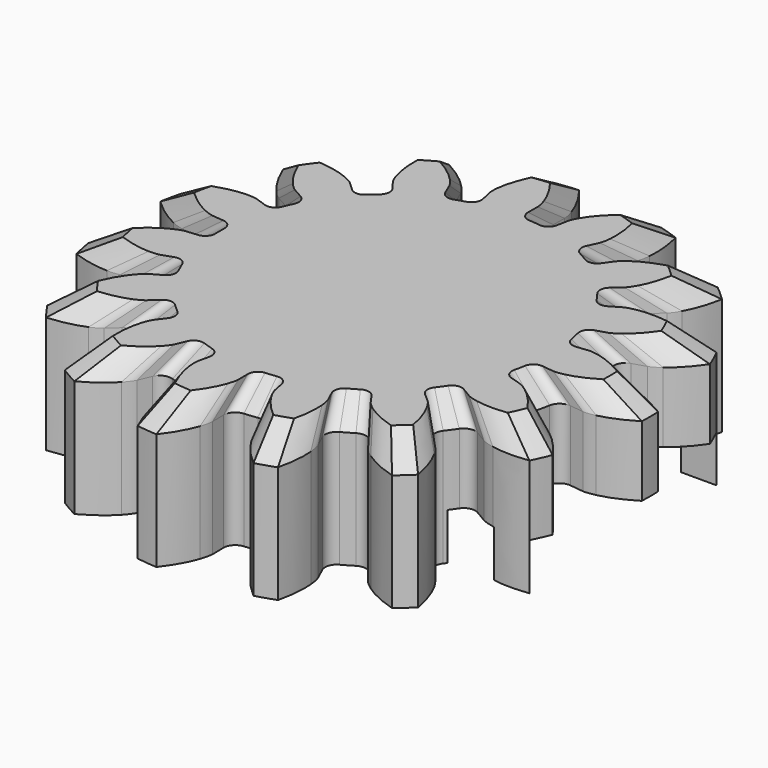
from build123d import *

# Parameters (mm, degrees)
SKETCH196_R             = 4
PAD127032_DEPTH         = 10
PAD127033_DEPTH         = 3
LOFT006_PLACEMENT_ANGLE = 180


with BuildPart() as countersinkcutout:
    # Sketch196 → Pad127032 (new body)
    with BuildSketch(Plane(origin=(50, 160, 17.5), x_dir=(1, 0, 0), z_dir=(0, 0, 1))):
        Circle(SKETCH196_R)
    extrude(amount=-PAD127032_DEPTH)


with BuildPart() as cutouts:
    # Sketch195 → Pad127033 (new body)
    with BuildSketch(Plane(origin=(50, 160, 12), x_dir=(1, 0, 0), z_dir=(0, 0, 1))):
        with BuildLine():
            Line((9, 3.75), (3.307189, 3.75))
            ThreePointArc((3.307189, 3.75), (0, 5), (-3.307189, 3.75))
            Line((-3.307189, 3.75), (-5, 3.75))
            Line((-5, 3.75), (-5, -3.75))
            Line((-5, -3.75), (-3.307189, -3.75))
            ThreePointArc((-3.307189, -3.75), (0, -5), (3.307189, -3.75))
            Line((3.307189, -3.75), (9, -3.75))
            Line((9, -2.5), (9, -3.75))
            Line((12, -2.5), (9, -2.5))
            Line((12, 2.5), (12, -2.5))
            Line((9, 2.5), (12, 2.5))
            Line((9, 3.75), (9, 2.5))
        make_face()
    extrude(amount=PAD127033_DEPTH)

    # Fusion004020025: union CountersinkCutout
    add(countersinkcutout.part)


with BuildPart() as steeringgear:
    # InvoluteGear002 → Loft006 section 0
    with BuildSketch(Plane.XY):
        with BuildLine():
            Line((5.582043, -0.670951), (5.961836, -0.715937))
            add(Edge.make_bspline(
                [(5.961836, -0.715937), (5.998774, -0.717834), (6.109807, -0.718548), (6.29569, -0.67705)],
                knots=[0, 0, 0, 0, 1, 1, 1, 1], degree=3))
            add(Edge.make_bspline(
                [(6.29569, -0.67705), (6.517506, -0.626527), (6.834998, -0.516331), (7.22067, -0.278475)],
                knots=[0, 0, 0, 0, 1, 1, 1, 1], degree=3))
            ThreePointArc((7.22067, -0.278475), (7.226039, 0), (7.22067, 0.278475))
            add(Edge.make_bspline(
                [(7.22067, 0.278475), (6.834998, 0.516331), (6.517506, 0.626527), (6.29569, 0.67705)],
                knots=[0, 0, 0, 0, 1, 1, 1, 1], degree=3))
            add(Edge.make_bspline(
                [(6.29569, 0.67705), (6.109807, 0.718548), (5.998774, 0.717834), (5.961836, 0.715937)],
                knots=[0, 0, 0, 0, 1, 1, 1, 1], degree=3))
            Line((5.961836, 0.715937), (5.582043, 0.670951))
            ThreePointArc((5.582043, 0.670951), (5.354491, 0.731128), (5.230276, 0.931057))
            ThreePointArc((5.230276, 0.931057), (5.196409, 1.104531), (5.15679, 1.276782))
            ThreePointArc((5.15679, 1.276782), (5.188948, 1.509949), (5.37235, 1.657477))
            Line((5.37235, 1.657477), (5.737606, 1.770857))
            add(Edge.make_bspline(
                [(5.737606, 1.770857), (5.772122, 1.784147), (5.873846, 1.828657), (6.02678, 1.942172)],
                knots=[0, 0, 0, 0, 1, 1, 1, 1], degree=3))
            add(Edge.make_bspline(
                [(6.02678, 1.942172), (6.208869, 2.078547), (6.454092, 2.308352), (6.709676, 2.682511)],
                knots=[0, 0, 0, 0, 1, 1, 1, 1], degree=3))
            ThreePointArc((6.709676, 2.682511), (6.601315, 2.939095), (6.483144, 3.191311))
            add(Edge.make_bspline(
                [(6.483144, 3.191311), (6.03407, 3.251736), (5.699206, 3.22327), (5.476018, 3.179204)],
                knots=[0, 0, 0, 0, 1, 1, 1, 1], degree=3))
            add(Edge.make_bspline(
                [(5.476018, 3.179204), (5.289327, 3.141508), (5.188183, 3.095695), (5.155211, 3.078938)],
                knots=[0, 0, 0, 0, 1, 1, 1, 1], degree=3))
            Line((5.155211, 3.078938), (4.82655, 2.883365))
            ThreePointArc((4.82655, 2.883365), (4.594195, 2.845786), (4.3994, 2.977908))
            ThreePointArc((4.3994, 2.977908), (4.297903, 3.122609), (4.191648, 3.263854))
            ThreePointArc((4.191648, 3.263854), (4.126188, 3.489942), (4.233729, 3.699313))
            Line((4.233729, 3.699313), (4.521292, 3.951453))
            add(Edge.make_bspline(
                [(4.521292, 3.951453), (4.547418, 3.977633), (4.622244, 4.05967), (4.715785, 4.225574)],
                knots=[0, 0, 0, 0, 1, 1, 1, 1], degree=3))
            add(Edge.make_bspline(
                [(4.715785, 4.225574), (4.826663, 4.424222), (4.957215, 4.7339), (5.038519, 5.179667)],
                knots=[0, 0, 0, 0, 1, 1, 1, 1], degree=3))
            ThreePointArc((5.038519, 5.179667), (4.835164, 5.369993), (4.624624, 5.55234))
            add(Edge.make_bspline(
                [(4.624624, 5.55234), (4.189797, 5.424886), (3.895462, 5.262679), (3.709492, 5.131644)],
                knots=[0, 0, 0, 0, 1, 1, 1, 1], degree=3))
            add(Edge.make_bspline(
                [(3.709492, 5.131644), (3.554274, 5.021274), (3.480508, 4.938283), (3.457203, 4.909563)],
                knots=[0, 0, 0, 0, 1, 1, 1, 1], degree=3))
            Line((3.457203, 4.909563), (3.236502, 4.59722))
            ThreePointArc((3.236502, 4.59722), (3.03952, 4.468383), (2.807828, 4.509851))
            ThreePointArc((2.807828, 4.509851), (2.65625, 4.60076), (2.501732, 4.686576))
            ThreePointArc((2.501732, 4.686576), (2.349973, 4.866493), (2.363058, 5.101503))
            Line((2.363058, 5.101503), (2.523205, 5.448807))
            add(Edge.make_bspline(
                [(2.523205, 5.448807), (2.536424, 5.48335), (2.571414, 5.588729), (2.589388, 5.778337)],
                knots=[0, 0, 0, 0, 1, 1, 1, 1], degree=3))
            add(Edge.make_bspline(
                [(2.589388, 5.778337), (2.609883, 6.004909), (2.603191, 6.340914), (2.496155, 6.781212)],
                knots=[0, 0, 0, 0, 1, 1, 1, 1], degree=3))
            ThreePointArc((2.496155, 6.781212), (2.232969, 6.872371), (1.966464, 6.953319))
            add(Edge.make_bspline(
                [(1.966464, 6.953319), (1.62107, 6.660024), (1.418157, 6.392124), (1.301562, 6.196777)],
                knots=[0, 0, 0, 0, 1, 1, 1, 1], degree=3))
            add(Edge.make_bspline(
                [(1.301562, 6.196777), (1.204655, 6.032816), (1.171022, 5.926996), (1.161412, 5.89128)],
                knots=[0, 0, 0, 0, 1, 1, 1, 1], degree=3))
            Line((1.161412, 5.89128), (1.086834, 5.516173))
            ThreePointArc((1.086834, 5.516173), (0.959285, 5.318355), (0.730757, 5.262001))
            ThreePointArc((0.730757, 5.262001), (0.555307, 5.283398), (0.379244, 5.298946))
            ThreePointArc((0.379244, 5.298946), (0.167426, 5.401583), (0.083793, 5.621597))
            Line((0.083793, 5.621597), (0.088833, 6.004013))
            add(Edge.make_bspline(
                [(0.088833, 6.004013), (0.086859, 6.040946), (0.075963, 6.151446), (0.015263, 6.331972)],
                knots=[0, 0, 0, 0, 1, 1, 1, 1], degree=3))
            add(Edge.make_bspline(
                [(0.015263, 6.331972), (-0.05817, 6.547292), (-0.200949, 6.851526), (-0.477816, 7.210223)],
                knots=[0, 0, 0, 0, 1, 1, 1, 1], degree=3))
            ThreePointArc((-0.477816, 7.210223), (-0.755327, 7.186454), (-1.031715, 7.152006))
            add(Edge.make_bspline(
                [(-1.031715, 7.152006), (-1.227955, 6.743583), (-1.30436, 6.416312), (-1.33142, 6.19043)],
                knots=[0, 0, 0, 0, 1, 1, 1, 1], degree=3))
            add(Edge.make_bspline(
                [(-1.33142, 6.19043), (-1.35326, 6.001229), (-1.340944, 5.890878), (-1.335196, 5.854341)],
                knots=[0, 0, 0, 0, 1, 1, 1, 1], degree=3))
            Line((-1.335196, 5.854341), (-1.250757, 5.48133))
            ThreePointArc((-1.250757, 5.48133), (-1.28682, 5.248735), (-1.472669, 5.104302))
            ThreePointArc((-1.472669, 5.104302), (-1.641653, 5.052488), (-1.808819, 4.995081))
            ThreePointArc((-1.808819, 4.995081), (-2.04407, 5.00269), (-2.209961, 5.169666))
            Line((-2.209961, 5.169666), (-2.360899, 5.52107))
            add(Edge.make_bspline(
                [(-2.360899, 5.52107), (-2.377724, 5.554008), (-2.432623, 5.650522), (-2.561502, 5.790753)],
                knots=[0, 0, 0, 0, 1, 1, 1, 1], degree=3))
            add(Edge.make_bspline(
                [(-2.561502, 5.790753), (-2.716164, 5.957589), (-2.970343, 6.177447), (-3.369168, 6.392521)],
                knots=[0, 0, 0, 0, 1, 1, 1, 1], degree=3))
            ThreePointArc((-3.369168, 6.392521), (-3.613019, 6.257933), (-3.851502, 6.114046))
            add(Edge.make_bspline(
                [(-3.851502, 6.114046), (-3.864655, 5.661116), (-3.801341, 5.331062), (-3.734188, 5.113702)],
                knots=[0, 0, 0, 0, 1, 1, 1, 1], degree=3))
            add(Edge.make_bspline(
                [(-3.734188, 5.113702), (-3.677184, 4.931975), (-3.62105, 4.836173), (-3.600938, 4.805133)],
                knots=[0, 0, 0, 0, 1, 1, 1, 1], degree=3))
            Line((-3.600938, 4.805133), (-3.372082, 4.498715))
            ThreePointArc((-3.372082, 4.498715), (-3.310421, 4.271562), (-3.421457, 4.064024))
            ThreePointArc((-3.421457, 4.064024), (-3.554756, 3.947957), (-3.684121, 3.82752))
            ThreePointArc((-3.684121, 3.82752), (-3.902128, 3.738786), (-4.121593, 3.823853))
            Line((-4.121593, 3.823853), (-4.40241, 4.083485))
            add(Edge.make_bspline(
                [(-4.40241, 4.083485), (-4.431178, 4.106731), (-4.520586, 4.172572), (-4.69536, 4.248259)],
                knots=[0, 0, 0, 0, 1, 1, 1, 1], degree=3))
            add(Edge.make_bspline(
                [(-4.69536, 4.248259), (-4.904509, 4.337765), (-5.226137, 4.435232), (-5.677961, 4.469495)],
                knots=[0, 0, 0, 0, 1, 1, 1, 1], degree=3))
            ThreePointArc((-5.677961, 4.469495), (-5.845988, 4.247359), (-6.005328, 4.018912))
            add(Edge.make_bspline(
                [(-6.005328, 4.018912), (-5.833121, 3.59979), (-5.641036, 3.324023), (-5.49128, 3.152769)],
                knots=[0, 0, 0, 0, 1, 1, 1, 1], degree=3))
            add(Edge.make_bspline(
                [(-5.49128, 3.152769), (-5.36529, 3.009937), (-5.275042, 2.945251), (-5.244044, 2.925075)],
                knots=[0, 0, 0, 0, 1, 1, 1, 1], degree=3))
            Line((-5.244044, 2.925075), (-4.910342, 2.738232))
            ThreePointArc((-4.910342, 2.738232), (-4.761621, 2.555796), (-4.778644, 2.321038))
            ThreePointArc((-4.778644, 2.321038), (-4.85321, 2.160788), (-4.922405, 1.998147))
            ThreePointArc((-4.922405, 1.998147), (-5.085473, 1.828412), (-5.320563, 1.816861))
            Line((-5.320563, 1.816861), (-5.682704, 1.939827))
            add(Edge.make_bspline(
                [(-5.682704, 1.939827), (-5.71844, 1.949363), (-5.826899, 1.973146), (-6.017347, 1.971203)],
                knots=[0, 0, 0, 0, 1, 1, 1, 1], degree=3))
            add(Edge.make_bspline(
                [(-6.017347, 1.971203), (-6.24482, 1.967902), (-6.578285, 1.926124), (-7.004983, 1.773652)],
                knots=[0, 0, 0, 0, 1, 1, 1, 1], degree=3))
            ThreePointArc((-7.004983, 1.773652), (-7.068132, 1.502378), (-7.120779, 1.228872))
            add(Edge.make_bspline(
                [(-7.120779, 1.228872), (-6.792988, 0.916028), (-6.505345, 0.742229), (-6.298881, 0.646692)],
                knots=[0, 0, 0, 0, 1, 1, 1, 1], degree=3))
            add(Edge.make_bspline(
                [(-6.298881, 0.646692), (-6.125688, 0.567455), (-6.016932, 0.545067), (-5.980408, 0.539244)],
                knots=[0, 0, 0, 0, 1, 1, 1, 1], degree=3))
            Line((-5.980408, 0.539244), (-5.59956, 0.504283))
            ThreePointArc((-5.59956, 0.504283), (-5.389493, 0.39811), (-5.30956, 0.176725))
            ThreePointArc((-5.30956, 0.176725), (-5.3125, 0), (-5.30956, -0.176725))
            ThreePointArc((-5.30956, -0.176725), (-5.389493, -0.39811), (-5.59956, -0.504283))
            Line((-5.59956, -0.504283), (-5.980408, -0.539244))
            add(Edge.make_bspline(
                [(-5.980408, -0.539244), (-6.016932, -0.545067), (-6.125688, -0.567455), (-6.298881, -0.646692)],
                knots=[0, 0, 0, 0, 1, 1, 1, 1], degree=3))
            add(Edge.make_bspline(
                [(-6.298881, -0.646692), (-6.505345, -0.742229), (-6.792988, -0.916028), (-7.120779, -1.228872)],
                knots=[0, 0, 0, 0, 1, 1, 1, 1], degree=3))
            ThreePointArc((-7.120779, -1.228872), (-7.068132, -1.502378), (-7.004983, -1.773652))
            add(Edge.make_bspline(
                [(-7.004983, -1.773652), (-6.578285, -1.926124), (-6.24482, -1.967902), (-6.017347, -1.971203)],
                knots=[0, 0, 0, 0, 1, 1, 1, 1], degree=3))
            add(Edge.make_bspline(
                [(-6.017347, -1.971203), (-5.826899, -1.973146), (-5.71844, -1.949363), (-5.682704, -1.939827)],
                knots=[0, 0, 0, 0, 1, 1, 1, 1], degree=3))
            Line((-5.682704, -1.939827), (-5.320563, -1.816861))
            ThreePointArc((-5.320563, -1.816861), (-5.085473, -1.828412), (-4.922405, -1.998147))
            ThreePointArc((-4.922405, -1.998147), (-4.85321, -2.160788), (-4.778644, -2.321038))
            ThreePointArc((-4.778644, -2.321038), (-4.761621, -2.555796), (-4.910342, -2.738232))
            Line((-4.910342, -2.738232), (-5.244044, -2.925075))
            add(Edge.make_bspline(
                [(-5.244044, -2.925075), (-5.275042, -2.945251), (-5.36529, -3.009937), (-5.49128, -3.152769)],
                knots=[0, 0, 0, 0, 1, 1, 1, 1], degree=3))
            add(Edge.make_bspline(
                [(-5.49128, -3.152769), (-5.641036, -3.324023), (-5.833121, -3.59979), (-6.005328, -4.018912)],
                knots=[0, 0, 0, 0, 1, 1, 1, 1], degree=3))
            ThreePointArc((-6.005328, -4.018912), (-5.845988, -4.247359), (-5.677961, -4.469495))
            add(Edge.make_bspline(
                [(-5.677961, -4.469495), (-5.226137, -4.435232), (-4.904509, -4.337765), (-4.69536, -4.248259)],
                knots=[0, 0, 0, 0, 1, 1, 1, 1], degree=3))
            add(Edge.make_bspline(
                [(-4.69536, -4.248259), (-4.520586, -4.172572), (-4.431178, -4.106731), (-4.40241, -4.083485)],
                knots=[0, 0, 0, 0, 1, 1, 1, 1], degree=3))
            Line((-4.40241, -4.083485), (-4.121593, -3.823853))
            ThreePointArc((-4.121593, -3.823853), (-3.902128, -3.738786), (-3.684121, -3.82752))
            ThreePointArc((-3.684121, -3.82752), (-3.554756, -3.947957), (-3.421457, -4.064024))
            ThreePointArc((-3.421457, -4.064024), (-3.310421, -4.271562), (-3.372082, -4.498715))
            Line((-3.372082, -4.498715), (-3.600938, -4.805133))
            add(Edge.make_bspline(
                [(-3.600938, -4.805133), (-3.62105, -4.836173), (-3.677184, -4.931975), (-3.734188, -5.113702)],
                knots=[0, 0, 0, 0, 1, 1, 1, 1], degree=3))
            add(Edge.make_bspline(
                [(-3.734188, -5.113702), (-3.801341, -5.331062), (-3.864655, -5.661116), (-3.851502, -6.114046)],
                knots=[0, 0, 0, 0, 1, 1, 1, 1], degree=3))
            ThreePointArc((-3.851502, -6.114046), (-3.613019, -6.257933), (-3.369168, -6.392521))
            add(Edge.make_bspline(
                [(-3.369168, -6.392521), (-2.970343, -6.177447), (-2.716164, -5.957589), (-2.561502, -5.790753)],
                knots=[0, 0, 0, 0, 1, 1, 1, 1], degree=3))
            add(Edge.make_bspline(
                [(-2.561502, -5.790753), (-2.432623, -5.650522), (-2.377724, -5.554008), (-2.360899, -5.52107)],
                knots=[0, 0, 0, 0, 1, 1, 1, 1], degree=3))
            Line((-2.360899, -5.52107), (-2.209961, -5.169666))
            ThreePointArc((-2.209961, -5.169666), (-2.04407, -5.00269), (-1.808819, -4.995081))
            ThreePointArc((-1.808819, -4.995081), (-1.641653, -5.052488), (-1.472669, -5.104302))
            ThreePointArc((-1.472669, -5.104302), (-1.28682, -5.248735), (-1.250757, -5.48133))
            Line((-1.250757, -5.48133), (-1.335196, -5.854341))
            add(Edge.make_bspline(
                [(-1.335196, -5.854341), (-1.340944, -5.890878), (-1.35326, -6.001229), (-1.33142, -6.19043)],
                knots=[0, 0, 0, 0, 1, 1, 1, 1], degree=3))
            add(Edge.make_bspline(
                [(-1.33142, -6.19043), (-1.30436, -6.416312), (-1.227955, -6.743583), (-1.031715, -7.152006)],
                knots=[0, 0, 0, 0, 1, 1, 1, 1], degree=3))
            ThreePointArc((-1.031715, -7.152006), (-0.755327, -7.186454), (-0.477816, -7.210223))
            add(Edge.make_bspline(
                [(-0.477816, -7.210223), (-0.200949, -6.851526), (-0.05817, -6.547292), (0.015263, -6.331972)],
                knots=[0, 0, 0, 0, 1, 1, 1, 1], degree=3))
            add(Edge.make_bspline(
                [(0.015263, -6.331972), (0.075963, -6.151446), (0.086859, -6.040946), (0.088833, -6.004013)],
                knots=[0, 0, 0, 0, 1, 1, 1, 1], degree=3))
            Line((0.088833, -6.004013), (0.083793, -5.621597))
            ThreePointArc((0.083793, -5.621597), (0.167426, -5.401583), (0.379244, -5.298946))
            ThreePointArc((0.379244, -5.298946), (0.555307, -5.283398), (0.730757, -5.262001))
            ThreePointArc((0.730757, -5.262001), (0.959285, -5.318355), (1.086834, -5.516173))
            Line((1.086834, -5.516173), (1.161412, -5.89128))
            add(Edge.make_bspline(
                [(1.161412, -5.89128), (1.171022, -5.926996), (1.204655, -6.032816), (1.301562, -6.196777)],
                knots=[0, 0, 0, 0, 1, 1, 1, 1], degree=3))
            add(Edge.make_bspline(
                [(1.301562, -6.196777), (1.418157, -6.392124), (1.62107, -6.660024), (1.966464, -6.953319)],
                knots=[0, 0, 0, 0, 1, 1, 1, 1], degree=3))
            ThreePointArc((1.966464, -6.953319), (2.232969, -6.872371), (2.496155, -6.781212))
            add(Edge.make_bspline(
                [(2.496155, -6.781212), (2.603191, -6.340914), (2.609883, -6.004909), (2.589388, -5.778337)],
                knots=[0, 0, 0, 0, 1, 1, 1, 1], degree=3))
            add(Edge.make_bspline(
                [(2.589388, -5.778337), (2.571414, -5.588729), (2.536424, -5.48335), (2.523205, -5.448807)],
                knots=[0, 0, 0, 0, 1, 1, 1, 1], degree=3))
            Line((2.523205, -5.448807), (2.363058, -5.101503))
            ThreePointArc((2.363058, -5.101503), (2.349973, -4.866493), (2.501732, -4.686576))
            ThreePointArc((2.501732, -4.686576), (2.65625, -4.60076), (2.807828, -4.509851))
            ThreePointArc((2.807828, -4.509851), (3.03952, -4.468383), (3.236502, -4.59722))
            Line((3.236502, -4.59722), (3.457203, -4.909563))
            add(Edge.make_bspline(
                [(3.457203, -4.909563), (3.480508, -4.938283), (3.554274, -5.021274), (3.709492, -5.131644)],
                knots=[0, 0, 0, 0, 1, 1, 1, 1], degree=3))
            add(Edge.make_bspline(
                [(3.709492, -5.131644), (3.895462, -5.262679), (4.189797, -5.424886), (4.624624, -5.55234)],
                knots=[0, 0, 0, 0, 1, 1, 1, 1], degree=3))
            ThreePointArc((4.624624, -5.55234), (4.835164, -5.369993), (5.038519, -5.179667))
            add(Edge.make_bspline(
                [(5.038519, -5.179667), (4.957215, -4.7339), (4.826663, -4.424222), (4.715785, -4.225574)],
                knots=[0, 0, 0, 0, 1, 1, 1, 1], degree=3))
            add(Edge.make_bspline(
                [(4.715785, -4.225574), (4.622244, -4.05967), (4.547418, -3.977633), (4.521292, -3.951453)],
                knots=[0, 0, 0, 0, 1, 1, 1, 1], degree=3))
            Line((4.521292, -3.951453), (4.233729, -3.699313))
            ThreePointArc((4.233729, -3.699313), (4.126188, -3.489942), (4.191648, -3.263854))
            ThreePointArc((4.191648, -3.263854), (4.297903, -3.122609), (4.3994, -2.977908))
            ThreePointArc((4.3994, -2.977908), (4.594195, -2.845786), (4.82655, -2.883365))
            Line((4.82655, -2.883365), (5.155211, -3.078938))
            add(Edge.make_bspline(
                [(5.155211, -3.078938), (5.188183, -3.095695), (5.289327, -3.141508), (5.476018, -3.179204)],
                knots=[0, 0, 0, 0, 1, 1, 1, 1], degree=3))
            add(Edge.make_bspline(
                [(5.476018, -3.179204), (5.699206, -3.22327), (6.03407, -3.251736), (6.483144, -3.191311)],
                knots=[0, 0, 0, 0, 1, 1, 1, 1], degree=3))
            ThreePointArc((6.483144, -3.191311), (6.601315, -2.939095), (6.709676, -2.682511))
            add(Edge.make_bspline(
                [(6.709676, -2.682511), (6.454092, -2.308352), (6.208869, -2.078547), (6.02678, -1.942172)],
                knots=[0, 0, 0, 0, 1, 1, 1, 1], degree=3))
            add(Edge.make_bspline(
                [(6.02678, -1.942172), (5.873846, -1.828657), (5.772122, -1.784147), (5.737606, -1.770857)],
                knots=[0, 0, 0, 0, 1, 1, 1, 1], degree=3))
            Line((5.737606, -1.770857), (5.37235, -1.657477))
            ThreePointArc((5.37235, -1.657477), (5.188948, -1.509949), (5.15679, -1.276782))
            ThreePointArc((5.15679, -1.276782), (5.196409, -1.104531), (5.230276, -0.931057))
            ThreePointArc((5.230276, -0.931057), (5.354491, -0.731128), (5.582043, -0.670951))
        make_face()
    # InvoluteGear001 → Loft006 section 1
    with BuildSketch(Plane.XY.offset(0.75)):
        with BuildLine():
            Line((6.567109, -0.789354), (7.013925, -0.842279))
            add(Edge.make_bspline(
                [(7.013925, -0.842279), (7.057381, -0.844511), (7.188009, -0.84535), (7.406694, -0.79653)],
                knots=[0, 0, 0, 0, 1, 1, 1, 1], degree=3))
            add(Edge.make_bspline(
                [(7.406694, -0.79653), (7.667654, -0.737091), (8.041174, -0.607449), (8.494906, -0.327618)],
                knots=[0, 0, 0, 0, 1, 1, 1, 1], degree=3))
            ThreePointArc((8.494906, -0.327618), (8.501222, 0), (8.494906, 0.327618))
            add(Edge.make_bspline(
                [(8.494906, 0.327618), (8.041174, 0.607449), (7.667654, 0.737091), (7.406694, 0.79653)],
                knots=[0, 0, 0, 0, 1, 1, 1, 1], degree=3))
            add(Edge.make_bspline(
                [(7.406694, 0.79653), (7.188009, 0.84535), (7.057381, 0.844511), (7.013925, 0.842279)],
                knots=[0, 0, 0, 0, 1, 1, 1, 1], degree=3))
            Line((7.013925, 0.842279), (6.567109, 0.789354))
            ThreePointArc((6.567109, 0.789354), (6.299402, 0.860151), (6.153266, 1.095361))
            ThreePointArc((6.153266, 1.095361), (6.113423, 1.299448), (6.066812, 1.502097))
            ThreePointArc((6.066812, 1.502097), (6.104644, 1.776411), (6.320412, 1.949974))
            Line((6.320412, 1.949974), (6.750125, 2.083361))
            add(Edge.make_bspline(
                [(6.750125, 2.083361), (6.790732, 2.098996), (6.910408, 2.151361), (7.090329, 2.284908)],
                knots=[0, 0, 0, 0, 1, 1, 1, 1], degree=3))
            add(Edge.make_bspline(
                [(7.090329, 2.284908), (7.304552, 2.44535), (7.593049, 2.715708), (7.893737, 3.155896)],
                knots=[0, 0, 0, 0, 1, 1, 1, 1], degree=3))
            ThreePointArc((7.893737, 3.155896), (7.766253, 3.457758), (7.627228, 3.754483))
            add(Edge.make_bspline(
                [(7.627228, 3.754483), (7.098906, 3.825572), (6.704948, 3.792082), (6.442374, 3.74024)],
                knots=[0, 0, 0, 0, 1, 1, 1, 1], degree=3))
            add(Edge.make_bspline(
                [(6.442374, 3.74024), (6.222738, 3.695892), (6.103745, 3.641994), (6.064954, 3.62228)],
                knots=[0, 0, 0, 0, 1, 1, 1, 1], degree=3))
            Line((6.064954, 3.62228), (5.678294, 3.392194))
            ThreePointArc((5.678294, 3.392194), (5.404935, 3.347984), (5.175765, 3.503421))
            ThreePointArc((5.175765, 3.503421), (5.056356, 3.673658), (4.931351, 3.839828))
            ThreePointArc((4.931351, 3.839828), (4.854339, 4.105815), (4.980858, 4.352132))
            Line((4.980858, 4.352132), (5.319167, 4.648768))
            add(Edge.make_bspline(
                [(5.319167, 4.648768), (5.349903, 4.679568), (5.437934, 4.776082), (5.547983, 4.971264)],
                knots=[0, 0, 0, 0, 1, 1, 1, 1], degree=3))
            add(Edge.make_bspline(
                [(5.547983, 4.971264), (5.678427, 5.204967), (5.832018, 5.569294), (5.927669, 6.093726)],
                knots=[0, 0, 0, 0, 1, 1, 1, 1], degree=3))
            ThreePointArc((5.927669, 6.093726), (5.688428, 6.317639), (5.440734, 6.532165))
            add(Edge.make_bspline(
                [(5.440734, 6.532165), (4.929173, 6.382219), (4.582897, 6.191387), (4.364109, 6.037229)],
                knots=[0, 0, 0, 0, 1, 1, 1, 1], degree=3))
            add(Edge.make_bspline(
                [(4.364109, 6.037229), (4.181499, 5.907381), (4.094716, 5.809744), (4.067297, 5.775957)],
                knots=[0, 0, 0, 0, 1, 1, 1, 1], degree=3))
            Line((4.067297, 5.775957), (3.80765, 5.408494))
            ThreePointArc((3.80765, 5.408494), (3.575906, 5.256921), (3.303327, 5.305707))
            ThreePointArc((3.303327, 5.305707), (3.125, 5.412659), (2.943214, 5.513619))
            ThreePointArc((2.943214, 5.513619), (2.764674, 5.725286), (2.780068, 6.001768))
            Line((2.780068, 6.001768), (2.968477, 6.410361))
            add(Edge.make_bspline(
                [(2.968477, 6.410361), (2.984028, 6.451), (3.025193, 6.574975), (3.046339, 6.798043)],
                knots=[0, 0, 0, 0, 1, 1, 1, 1], degree=3))
            add(Edge.make_bspline(
                [(3.046339, 6.798043), (3.070451, 7.064599), (3.062577, 7.459899), (2.936653, 7.977896)],
                knots=[0, 0, 0, 0, 1, 1, 1, 1], degree=3))
            ThreePointArc((2.936653, 7.977896), (2.627022, 8.085143), (2.313487, 8.180375))
            add(Edge.make_bspline(
                [(2.313487, 8.180375), (1.907141, 7.835322), (1.66842, 7.520146), (1.53125, 7.290326)],
                knots=[0, 0, 0, 0, 1, 1, 1, 1], degree=3))
            add(Edge.make_bspline(
                [(1.53125, 7.290326), (1.417241, 7.09743), (1.377673, 6.972936), (1.366368, 6.930918)],
                knots=[0, 0, 0, 0, 1, 1, 1, 1], degree=3))
            Line((1.366368, 6.930918), (1.278628, 6.489615))
            ThreePointArc((1.278628, 6.489615), (1.12857, 6.256888), (0.859714, 6.190589))
            ThreePointArc((0.859714, 6.190589), (0.653303, 6.215762), (0.446169, 6.234054))
            ThreePointArc((0.446169, 6.234054), (0.196972, 6.354803), (0.09858, 6.613644))
            Line((0.09858, 6.613644), (0.10451, 7.063544))
            add(Edge.make_bspline(
                [(0.10451, 7.063544), (0.102187, 7.106995), (0.089368, 7.236995), (0.017956, 7.449379)],
                knots=[0, 0, 0, 0, 1, 1, 1, 1], degree=3))
            add(Edge.make_bspline(
                [(0.017956, 7.449379), (-0.068435, 7.702697), (-0.236411, 8.060619), (-0.562136, 8.482615)],
                knots=[0, 0, 0, 0, 1, 1, 1, 1], degree=3))
            ThreePointArc((-0.562136, 8.482615), (-0.88862, 8.454651), (-1.213783, 8.414124))
            add(Edge.make_bspline(
                [(-1.213783, 8.414124), (-1.444652, 7.933628), (-1.534541, 7.548603), (-1.566377, 7.282859)],
                knots=[0, 0, 0, 0, 1, 1, 1, 1], degree=3))
            add(Edge.make_bspline(
                [(-1.566377, 7.282859), (-1.592071, 7.060269), (-1.577582, 6.930444), (-1.570819, 6.88746)],
                knots=[0, 0, 0, 0, 1, 1, 1, 1], degree=3))
            Line((-1.570819, 6.88746), (-1.471479, 6.448624))
            ThreePointArc((-1.471479, 6.448624), (-1.513905, 6.174983), (-1.732552, 6.005062))
            ThreePointArc((-1.732552, 6.005062), (-1.931356, 5.944103), (-2.128023, 5.876565))
            ThreePointArc((-2.128023, 5.876565), (-2.404789, 5.885517), (-2.599954, 6.08196))
            Line((-2.599954, 6.08196), (-2.777528, 6.495377))
            add(Edge.make_bspline(
                [(-2.777528, 6.495377), (-2.797323, 6.534127), (-2.86191, 6.647673), (-3.013532, 6.81265)],
                knots=[0, 0, 0, 0, 1, 1, 1, 1], degree=3))
            add(Edge.make_bspline(
                [(-3.013532, 6.81265), (-3.195487, 7.008929), (-3.494521, 7.267585), (-3.963727, 7.520613)],
                knots=[0, 0, 0, 0, 1, 1, 1, 1], degree=3))
            ThreePointArc((-3.963727, 7.520613), (-4.250611, 7.362274), (-4.531178, 7.192995))
            add(Edge.make_bspline(
                [(-4.531178, 7.192995), (-4.546653, 6.660136), (-4.472166, 6.271838), (-4.393162, 6.01612)],
                knots=[0, 0, 0, 0, 1, 1, 1, 1], degree=3))
            add(Edge.make_bspline(
                [(-4.393162, 6.01612), (-4.326099, 5.802323), (-4.260058, 5.689616), (-4.236397, 5.653098)],
                knots=[0, 0, 0, 0, 1, 1, 1, 1], degree=3))
            Line((-4.236397, 5.653098), (-3.967155, 5.292606))
            ThreePointArc((-3.967155, 5.292606), (-3.894613, 5.025366), (-4.025244, 4.781204))
            ThreePointArc((-4.025244, 4.781204), (-4.182066, 4.644655), (-4.33426, 4.502965))
            ThreePointArc((-4.33426, 4.502965), (-4.590739, 4.398572), (-4.848932, 4.49865))
            Line((-4.848932, 4.49865), (-5.179306, 4.8041))
            add(Edge.make_bspline(
                [(-5.179306, 4.8041), (-5.21315, 4.831448), (-5.318337, 4.908908), (-5.523953, 4.997952)],
                knots=[0, 0, 0, 0, 1, 1, 1, 1], degree=3))
            add(Edge.make_bspline(
                [(-5.523953, 4.997952), (-5.770011, 5.103253), (-6.148397, 5.217919), (-6.679954, 5.258229)],
                knots=[0, 0, 0, 0, 1, 1, 1, 1], degree=3))
            ThreePointArc((-6.679954, 5.258229), (-6.877633, 4.996893), (-7.065092, 4.728132))
            add(Edge.make_bspline(
                [(-7.065092, 4.728132), (-6.862495, 4.235047), (-6.636513, 3.910615), (-6.46033, 3.709139)],
                knots=[0, 0, 0, 0, 1, 1, 1, 1], degree=3))
            add(Edge.make_bspline(
                [(-6.46033, 3.709139), (-6.312106, 3.541103), (-6.205932, 3.465001), (-6.169464, 3.441264)],
                knots=[0, 0, 0, 0, 1, 1, 1, 1], degree=3))
            Line((-6.169464, 3.441264), (-5.776873, 3.221449))
            ThreePointArc((-5.776873, 3.221449), (-5.601907, 3.006819), (-5.621934, 2.730633))
            ThreePointArc((-5.621934, 2.730633), (-5.709659, 2.542104), (-5.791064, 2.350761))
            ThreePointArc((-5.791064, 2.350761), (-5.982909, 2.151073), (-6.259486, 2.137483))
            Line((-6.259486, 2.137483), (-6.685535, 2.28215))
            add(Edge.make_bspline(
                [(-6.685535, 2.28215), (-6.727576, 2.293368), (-6.855175, 2.321348), (-7.079232, 2.319062)],
                knots=[0, 0, 0, 0, 1, 1, 1, 1], degree=3))
            add(Edge.make_bspline(
                [(-7.079232, 2.319062), (-7.346847, 2.315179), (-7.739159, 2.266028), (-8.241156, 2.086649)],
                knots=[0, 0, 0, 0, 1, 1, 1, 1], degree=3))
            ThreePointArc((-8.241156, 2.086649), (-8.31545, 1.767503), (-8.377387, 1.445732))
            add(Edge.make_bspline(
                [(-8.377387, 1.445732), (-7.99175, 1.07768), (-7.653347, 0.873211), (-7.410448, 0.760815)],
                knots=[0, 0, 0, 0, 1, 1, 1, 1], degree=3))
            add(Edge.make_bspline(
                [(-7.410448, 0.760815), (-7.206692, 0.667594), (-7.078744, 0.641256), (-7.035774, 0.634404)],
                knots=[0, 0, 0, 0, 1, 1, 1, 1], degree=3))
            Line((-7.035774, 0.634404), (-6.587718, 0.593274))
            ThreePointArc((-6.587718, 0.593274), (-6.34058, 0.468365), (-6.246541, 0.207911))
            ThreePointArc((-6.246541, 0.207911), (-6.25, 0), (-6.246541, -0.207911))
            ThreePointArc((-6.246541, -0.207911), (-6.34058, -0.468365), (-6.587718, -0.593274))
            Line((-6.587718, -0.593274), (-7.035774, -0.634404))
            add(Edge.make_bspline(
                [(-7.035774, -0.634404), (-7.078744, -0.641256), (-7.206692, -0.667594), (-7.410448, -0.760815)],
                knots=[0, 0, 0, 0, 1, 1, 1, 1], degree=3))
            add(Edge.make_bspline(
                [(-7.410448, -0.760815), (-7.653347, -0.873211), (-7.99175, -1.07768), (-8.377387, -1.445732)],
                knots=[0, 0, 0, 0, 1, 1, 1, 1], degree=3))
            ThreePointArc((-8.377387, -1.445732), (-8.31545, -1.767503), (-8.241156, -2.086649))
            add(Edge.make_bspline(
                [(-8.241156, -2.086649), (-7.739159, -2.266028), (-7.346847, -2.315179), (-7.079232, -2.319062)],
                knots=[0, 0, 0, 0, 1, 1, 1, 1], degree=3))
            add(Edge.make_bspline(
                [(-7.079232, -2.319062), (-6.855175, -2.321348), (-6.727576, -2.293368), (-6.685535, -2.28215)],
                knots=[0, 0, 0, 0, 1, 1, 1, 1], degree=3))
            Line((-6.685535, -2.28215), (-6.259486, -2.137483))
            ThreePointArc((-6.259486, -2.137483), (-5.982909, -2.151073), (-5.791064, -2.350761))
            ThreePointArc((-5.791064, -2.350761), (-5.709659, -2.542104), (-5.621934, -2.730633))
            ThreePointArc((-5.621934, -2.730633), (-5.601907, -3.006819), (-5.776873, -3.221449))
            Line((-5.776873, -3.221449), (-6.169464, -3.441264))
            add(Edge.make_bspline(
                [(-6.169464, -3.441264), (-6.205932, -3.465001), (-6.312106, -3.541103), (-6.46033, -3.709139)],
                knots=[0, 0, 0, 0, 1, 1, 1, 1], degree=3))
            add(Edge.make_bspline(
                [(-6.46033, -3.709139), (-6.636513, -3.910615), (-6.862495, -4.235047), (-7.065092, -4.728132)],
                knots=[0, 0, 0, 0, 1, 1, 1, 1], degree=3))
            ThreePointArc((-7.065092, -4.728132), (-6.877633, -4.996893), (-6.679954, -5.258229))
            add(Edge.make_bspline(
                [(-6.679954, -5.258229), (-6.148397, -5.217919), (-5.770011, -5.103253), (-5.523953, -4.997952)],
                knots=[0, 0, 0, 0, 1, 1, 1, 1], degree=3))
            add(Edge.make_bspline(
                [(-5.523953, -4.997952), (-5.318337, -4.908908), (-5.21315, -4.831448), (-5.179306, -4.8041)],
                knots=[0, 0, 0, 0, 1, 1, 1, 1], degree=3))
            Line((-5.179306, -4.8041), (-4.848932, -4.49865))
            ThreePointArc((-4.848932, -4.49865), (-4.590739, -4.398572), (-4.33426, -4.502965))
            ThreePointArc((-4.33426, -4.502965), (-4.182066, -4.644655), (-4.025244, -4.781204))
            ThreePointArc((-4.025244, -4.781204), (-3.894613, -5.025366), (-3.967155, -5.292606))
            Line((-3.967155, -5.292606), (-4.236397, -5.653098))
            add(Edge.make_bspline(
                [(-4.236397, -5.653098), (-4.260058, -5.689616), (-4.326099, -5.802323), (-4.393162, -6.01612)],
                knots=[0, 0, 0, 0, 1, 1, 1, 1], degree=3))
            add(Edge.make_bspline(
                [(-4.393162, -6.01612), (-4.472166, -6.271838), (-4.546653, -6.660136), (-4.531178, -7.192995)],
                knots=[0, 0, 0, 0, 1, 1, 1, 1], degree=3))
            ThreePointArc((-4.531178, -7.192995), (-4.250611, -7.362274), (-3.963727, -7.520613))
            add(Edge.make_bspline(
                [(-3.963727, -7.520613), (-3.494521, -7.267585), (-3.195487, -7.008929), (-3.013532, -6.81265)],
                knots=[0, 0, 0, 0, 1, 1, 1, 1], degree=3))
            add(Edge.make_bspline(
                [(-3.013532, -6.81265), (-2.86191, -6.647673), (-2.797323, -6.534127), (-2.777528, -6.495377)],
                knots=[0, 0, 0, 0, 1, 1, 1, 1], degree=3))
            Line((-2.777528, -6.495377), (-2.599954, -6.08196))
            ThreePointArc((-2.599954, -6.08196), (-2.404789, -5.885517), (-2.128023, -5.876565))
            ThreePointArc((-2.128023, -5.876565), (-1.931356, -5.944103), (-1.732552, -6.005062))
            ThreePointArc((-1.732552, -6.005062), (-1.513905, -6.174983), (-1.471479, -6.448624))
            Line((-1.471479, -6.448624), (-1.570819, -6.88746))
            add(Edge.make_bspline(
                [(-1.570819, -6.88746), (-1.577582, -6.930444), (-1.592071, -7.060269), (-1.566377, -7.282859)],
                knots=[0, 0, 0, 0, 1, 1, 1, 1], degree=3))
            add(Edge.make_bspline(
                [(-1.566377, -7.282859), (-1.534541, -7.548603), (-1.444652, -7.933628), (-1.213783, -8.414124)],
                knots=[0, 0, 0, 0, 1, 1, 1, 1], degree=3))
            ThreePointArc((-1.213783, -8.414124), (-0.88862, -8.454651), (-0.562136, -8.482615))
            add(Edge.make_bspline(
                [(-0.562136, -8.482615), (-0.236411, -8.060619), (-0.068435, -7.702697), (0.017956, -7.449379)],
                knots=[0, 0, 0, 0, 1, 1, 1, 1], degree=3))
            add(Edge.make_bspline(
                [(0.017956, -7.449379), (0.089368, -7.236995), (0.102187, -7.106995), (0.10451, -7.063544)],
                knots=[0, 0, 0, 0, 1, 1, 1, 1], degree=3))
            Line((0.10451, -7.063544), (0.09858, -6.613644))
            ThreePointArc((0.09858, -6.613644), (0.196972, -6.354803), (0.446169, -6.234054))
            ThreePointArc((0.446169, -6.234054), (0.653303, -6.215762), (0.859714, -6.190589))
            ThreePointArc((0.859714, -6.190589), (1.12857, -6.256888), (1.278628, -6.489615))
            Line((1.278628, -6.489615), (1.366368, -6.930918))
            add(Edge.make_bspline(
                [(1.366368, -6.930918), (1.377673, -6.972936), (1.417241, -7.09743), (1.53125, -7.290326)],
                knots=[0, 0, 0, 0, 1, 1, 1, 1], degree=3))
            add(Edge.make_bspline(
                [(1.53125, -7.290326), (1.66842, -7.520146), (1.907141, -7.835322), (2.313487, -8.180375)],
                knots=[0, 0, 0, 0, 1, 1, 1, 1], degree=3))
            ThreePointArc((2.313487, -8.180375), (2.627022, -8.085143), (2.936653, -7.977896))
            add(Edge.make_bspline(
                [(2.936653, -7.977896), (3.062577, -7.459899), (3.070451, -7.064599), (3.046339, -6.798043)],
                knots=[0, 0, 0, 0, 1, 1, 1, 1], degree=3))
            add(Edge.make_bspline(
                [(3.046339, -6.798043), (3.025193, -6.574975), (2.984028, -6.451), (2.968477, -6.410361)],
                knots=[0, 0, 0, 0, 1, 1, 1, 1], degree=3))
            Line((2.968477, -6.410361), (2.780068, -6.001768))
            ThreePointArc((2.780068, -6.001768), (2.764674, -5.725286), (2.943214, -5.513619))
            ThreePointArc((2.943214, -5.513619), (3.125, -5.412659), (3.303327, -5.305707))
            ThreePointArc((3.303327, -5.305707), (3.575906, -5.256921), (3.80765, -5.408494))
            Line((3.80765, -5.408494), (4.067297, -5.775957))
            add(Edge.make_bspline(
                [(4.067297, -5.775957), (4.094716, -5.809744), (4.181499, -5.907381), (4.364109, -6.037229)],
                knots=[0, 0, 0, 0, 1, 1, 1, 1], degree=3))
            add(Edge.make_bspline(
                [(4.364109, -6.037229), (4.582897, -6.191387), (4.929173, -6.382219), (5.440734, -6.532165)],
                knots=[0, 0, 0, 0, 1, 1, 1, 1], degree=3))
            ThreePointArc((5.440734, -6.532165), (5.688428, -6.317639), (5.927669, -6.093726))
            add(Edge.make_bspline(
                [(5.927669, -6.093726), (5.832018, -5.569294), (5.678427, -5.204967), (5.547983, -4.971264)],
                knots=[0, 0, 0, 0, 1, 1, 1, 1], degree=3))
            add(Edge.make_bspline(
                [(5.547983, -4.971264), (5.437934, -4.776082), (5.349903, -4.679568), (5.319167, -4.648768)],
                knots=[0, 0, 0, 0, 1, 1, 1, 1], degree=3))
            Line((5.319167, -4.648768), (4.980858, -4.352132))
            ThreePointArc((4.980858, -4.352132), (4.854339, -4.105815), (4.931351, -3.839828))
            ThreePointArc((4.931351, -3.839828), (5.056356, -3.673658), (5.175765, -3.503421))
            ThreePointArc((5.175765, -3.503421), (5.404935, -3.347984), (5.678294, -3.392194))
            Line((5.678294, -3.392194), (6.064954, -3.62228))
            add(Edge.make_bspline(
                [(6.064954, -3.62228), (6.103745, -3.641994), (6.222738, -3.695892), (6.442374, -3.74024)],
                knots=[0, 0, 0, 0, 1, 1, 1, 1], degree=3))
            add(Edge.make_bspline(
                [(6.442374, -3.74024), (6.704948, -3.792082), (7.098906, -3.825572), (7.627228, -3.754483)],
                knots=[0, 0, 0, 0, 1, 1, 1, 1], degree=3))
            ThreePointArc((7.627228, -3.754483), (7.766253, -3.457758), (7.893737, -3.155896))
            add(Edge.make_bspline(
                [(7.893737, -3.155896), (7.593049, -2.715708), (7.304552, -2.44535), (7.090329, -2.284908)],
                knots=[0, 0, 0, 0, 1, 1, 1, 1], degree=3))
            add(Edge.make_bspline(
                [(7.090329, -2.284908), (6.910408, -2.151361), (6.790732, -2.098996), (6.750125, -2.083361)],
                knots=[0, 0, 0, 0, 1, 1, 1, 1], degree=3))
            Line((6.750125, -2.083361), (6.320412, -1.949974))
            ThreePointArc((6.320412, -1.949974), (6.104644, -1.776411), (6.066812, -1.502097))
            ThreePointArc((6.066812, -1.502097), (6.113423, -1.299448), (6.153266, -1.095361))
            ThreePointArc((6.153266, -1.095361), (6.299402, -0.860151), (6.567109, -0.789354))
        make_face()
    # InvoluteGear003 → Loft006 section 2
    with BuildSketch(Plane.XY.offset(4.5)):
        with BuildLine():
            Line((6.567109, -0.789354), (7.013925, -0.842279))
            add(Edge.make_bspline(
                [(7.013925, -0.842279), (7.057381, -0.844511), (7.188009, -0.84535), (7.406694, -0.79653)],
                knots=[0, 0, 0, 0, 1, 1, 1, 1], degree=3))
            add(Edge.make_bspline(
                [(7.406694, -0.79653), (7.667654, -0.737091), (8.041174, -0.607449), (8.494906, -0.327618)],
                knots=[0, 0, 0, 0, 1, 1, 1, 1], degree=3))
            ThreePointArc((8.494906, -0.327618), (8.501222, 0), (8.494906, 0.327618))
            add(Edge.make_bspline(
                [(8.494906, 0.327618), (8.041174, 0.607449), (7.667654, 0.737091), (7.406694, 0.79653)],
                knots=[0, 0, 0, 0, 1, 1, 1, 1], degree=3))
            add(Edge.make_bspline(
                [(7.406694, 0.79653), (7.188009, 0.84535), (7.057381, 0.844511), (7.013925, 0.842279)],
                knots=[0, 0, 0, 0, 1, 1, 1, 1], degree=3))
            Line((7.013925, 0.842279), (6.567109, 0.789354))
            ThreePointArc((6.567109, 0.789354), (6.299402, 0.860151), (6.153266, 1.095361))
            ThreePointArc((6.153266, 1.095361), (6.113423, 1.299448), (6.066812, 1.502097))
            ThreePointArc((6.066812, 1.502097), (6.104644, 1.776411), (6.320412, 1.949974))
            Line((6.320412, 1.949974), (6.750125, 2.083361))
            add(Edge.make_bspline(
                [(6.750125, 2.083361), (6.790732, 2.098996), (6.910408, 2.151361), (7.090329, 2.284908)],
                knots=[0, 0, 0, 0, 1, 1, 1, 1], degree=3))
            add(Edge.make_bspline(
                [(7.090329, 2.284908), (7.304552, 2.44535), (7.593049, 2.715708), (7.893737, 3.155896)],
                knots=[0, 0, 0, 0, 1, 1, 1, 1], degree=3))
            ThreePointArc((7.893737, 3.155896), (7.766253, 3.457758), (7.627228, 3.754483))
            add(Edge.make_bspline(
                [(7.627228, 3.754483), (7.098906, 3.825572), (6.704948, 3.792082), (6.442374, 3.74024)],
                knots=[0, 0, 0, 0, 1, 1, 1, 1], degree=3))
            add(Edge.make_bspline(
                [(6.442374, 3.74024), (6.222738, 3.695892), (6.103745, 3.641994), (6.064954, 3.62228)],
                knots=[0, 0, 0, 0, 1, 1, 1, 1], degree=3))
            Line((6.064954, 3.62228), (5.678294, 3.392194))
            ThreePointArc((5.678294, 3.392194), (5.404935, 3.347984), (5.175765, 3.503421))
            ThreePointArc((5.175765, 3.503421), (5.056356, 3.673658), (4.931351, 3.839828))
            ThreePointArc((4.931351, 3.839828), (4.854339, 4.105815), (4.980858, 4.352132))
            Line((4.980858, 4.352132), (5.319167, 4.648768))
            add(Edge.make_bspline(
                [(5.319167, 4.648768), (5.349903, 4.679568), (5.437934, 4.776082), (5.547983, 4.971264)],
                knots=[0, 0, 0, 0, 1, 1, 1, 1], degree=3))
            add(Edge.make_bspline(
                [(5.547983, 4.971264), (5.678427, 5.204967), (5.832018, 5.569294), (5.927669, 6.093726)],
                knots=[0, 0, 0, 0, 1, 1, 1, 1], degree=3))
            ThreePointArc((5.927669, 6.093726), (5.688428, 6.317639), (5.440734, 6.532165))
            add(Edge.make_bspline(
                [(5.440734, 6.532165), (4.929173, 6.382219), (4.582897, 6.191387), (4.364109, 6.037229)],
                knots=[0, 0, 0, 0, 1, 1, 1, 1], degree=3))
            add(Edge.make_bspline(
                [(4.364109, 6.037229), (4.181499, 5.907381), (4.094716, 5.809744), (4.067297, 5.775957)],
                knots=[0, 0, 0, 0, 1, 1, 1, 1], degree=3))
            Line((4.067297, 5.775957), (3.80765, 5.408494))
            ThreePointArc((3.80765, 5.408494), (3.575906, 5.256921), (3.303327, 5.305707))
            ThreePointArc((3.303327, 5.305707), (3.125, 5.412659), (2.943214, 5.513619))
            ThreePointArc((2.943214, 5.513619), (2.764674, 5.725286), (2.780068, 6.001768))
            Line((2.780068, 6.001768), (2.968477, 6.410361))
            add(Edge.make_bspline(
                [(2.968477, 6.410361), (2.984028, 6.451), (3.025193, 6.574975), (3.046339, 6.798043)],
                knots=[0, 0, 0, 0, 1, 1, 1, 1], degree=3))
            add(Edge.make_bspline(
                [(3.046339, 6.798043), (3.070451, 7.064599), (3.062577, 7.459899), (2.936653, 7.977896)],
                knots=[0, 0, 0, 0, 1, 1, 1, 1], degree=3))
            ThreePointArc((2.936653, 7.977896), (2.627022, 8.085143), (2.313487, 8.180375))
            add(Edge.make_bspline(
                [(2.313487, 8.180375), (1.907141, 7.835322), (1.66842, 7.520146), (1.53125, 7.290326)],
                knots=[0, 0, 0, 0, 1, 1, 1, 1], degree=3))
            add(Edge.make_bspline(
                [(1.53125, 7.290326), (1.417241, 7.09743), (1.377673, 6.972936), (1.366368, 6.930918)],
                knots=[0, 0, 0, 0, 1, 1, 1, 1], degree=3))
            Line((1.366368, 6.930918), (1.278628, 6.489615))
            ThreePointArc((1.278628, 6.489615), (1.12857, 6.256888), (0.859714, 6.190589))
            ThreePointArc((0.859714, 6.190589), (0.653303, 6.215762), (0.446169, 6.234054))
            ThreePointArc((0.446169, 6.234054), (0.196972, 6.354803), (0.09858, 6.613644))
            Line((0.09858, 6.613644), (0.10451, 7.063544))
            add(Edge.make_bspline(
                [(0.10451, 7.063544), (0.102187, 7.106995), (0.089368, 7.236995), (0.017956, 7.449379)],
                knots=[0, 0, 0, 0, 1, 1, 1, 1], degree=3))
            add(Edge.make_bspline(
                [(0.017956, 7.449379), (-0.068435, 7.702697), (-0.236411, 8.060619), (-0.562136, 8.482615)],
                knots=[0, 0, 0, 0, 1, 1, 1, 1], degree=3))
            ThreePointArc((-0.562136, 8.482615), (-0.88862, 8.454651), (-1.213783, 8.414124))
            add(Edge.make_bspline(
                [(-1.213783, 8.414124), (-1.444652, 7.933628), (-1.534541, 7.548603), (-1.566377, 7.282859)],
                knots=[0, 0, 0, 0, 1, 1, 1, 1], degree=3))
            add(Edge.make_bspline(
                [(-1.566377, 7.282859), (-1.592071, 7.060269), (-1.577582, 6.930444), (-1.570819, 6.88746)],
                knots=[0, 0, 0, 0, 1, 1, 1, 1], degree=3))
            Line((-1.570819, 6.88746), (-1.471479, 6.448624))
            ThreePointArc((-1.471479, 6.448624), (-1.513905, 6.174983), (-1.732552, 6.005062))
            ThreePointArc((-1.732552, 6.005062), (-1.931356, 5.944103), (-2.128023, 5.876565))
            ThreePointArc((-2.128023, 5.876565), (-2.404789, 5.885517), (-2.599954, 6.08196))
            Line((-2.599954, 6.08196), (-2.777528, 6.495377))
            add(Edge.make_bspline(
                [(-2.777528, 6.495377), (-2.797323, 6.534127), (-2.86191, 6.647673), (-3.013532, 6.81265)],
                knots=[0, 0, 0, 0, 1, 1, 1, 1], degree=3))
            add(Edge.make_bspline(
                [(-3.013532, 6.81265), (-3.195487, 7.008929), (-3.494521, 7.267585), (-3.963727, 7.520613)],
                knots=[0, 0, 0, 0, 1, 1, 1, 1], degree=3))
            ThreePointArc((-3.963727, 7.520613), (-4.250611, 7.362274), (-4.531178, 7.192995))
            add(Edge.make_bspline(
                [(-4.531178, 7.192995), (-4.546653, 6.660136), (-4.472166, 6.271838), (-4.393162, 6.01612)],
                knots=[0, 0, 0, 0, 1, 1, 1, 1], degree=3))
            add(Edge.make_bspline(
                [(-4.393162, 6.01612), (-4.326099, 5.802323), (-4.260058, 5.689616), (-4.236397, 5.653098)],
                knots=[0, 0, 0, 0, 1, 1, 1, 1], degree=3))
            Line((-4.236397, 5.653098), (-3.967155, 5.292606))
            ThreePointArc((-3.967155, 5.292606), (-3.894613, 5.025366), (-4.025244, 4.781204))
            ThreePointArc((-4.025244, 4.781204), (-4.182066, 4.644655), (-4.33426, 4.502965))
            ThreePointArc((-4.33426, 4.502965), (-4.590739, 4.398572), (-4.848932, 4.49865))
            Line((-4.848932, 4.49865), (-5.179306, 4.8041))
            add(Edge.make_bspline(
                [(-5.179306, 4.8041), (-5.21315, 4.831448), (-5.318337, 4.908908), (-5.523953, 4.997952)],
                knots=[0, 0, 0, 0, 1, 1, 1, 1], degree=3))
            add(Edge.make_bspline(
                [(-5.523953, 4.997952), (-5.770011, 5.103253), (-6.148397, 5.217919), (-6.679954, 5.258229)],
                knots=[0, 0, 0, 0, 1, 1, 1, 1], degree=3))
            ThreePointArc((-6.679954, 5.258229), (-6.877633, 4.996893), (-7.065092, 4.728132))
            add(Edge.make_bspline(
                [(-7.065092, 4.728132), (-6.862495, 4.235047), (-6.636513, 3.910615), (-6.46033, 3.709139)],
                knots=[0, 0, 0, 0, 1, 1, 1, 1], degree=3))
            add(Edge.make_bspline(
                [(-6.46033, 3.709139), (-6.312106, 3.541103), (-6.205932, 3.465001), (-6.169464, 3.441264)],
                knots=[0, 0, 0, 0, 1, 1, 1, 1], degree=3))
            Line((-6.169464, 3.441264), (-5.776873, 3.221449))
            ThreePointArc((-5.776873, 3.221449), (-5.601907, 3.006819), (-5.621934, 2.730633))
            ThreePointArc((-5.621934, 2.730633), (-5.709659, 2.542104), (-5.791064, 2.350761))
            ThreePointArc((-5.791064, 2.350761), (-5.982909, 2.151073), (-6.259486, 2.137483))
            Line((-6.259486, 2.137483), (-6.685535, 2.28215))
            add(Edge.make_bspline(
                [(-6.685535, 2.28215), (-6.727576, 2.293368), (-6.855175, 2.321348), (-7.079232, 2.319062)],
                knots=[0, 0, 0, 0, 1, 1, 1, 1], degree=3))
            add(Edge.make_bspline(
                [(-7.079232, 2.319062), (-7.346847, 2.315179), (-7.739159, 2.266028), (-8.241156, 2.086649)],
                knots=[0, 0, 0, 0, 1, 1, 1, 1], degree=3))
            ThreePointArc((-8.241156, 2.086649), (-8.31545, 1.767503), (-8.377387, 1.445732))
            add(Edge.make_bspline(
                [(-8.377387, 1.445732), (-7.99175, 1.07768), (-7.653347, 0.873211), (-7.410448, 0.760815)],
                knots=[0, 0, 0, 0, 1, 1, 1, 1], degree=3))
            add(Edge.make_bspline(
                [(-7.410448, 0.760815), (-7.206692, 0.667594), (-7.078744, 0.641256), (-7.035774, 0.634404)],
                knots=[0, 0, 0, 0, 1, 1, 1, 1], degree=3))
            Line((-7.035774, 0.634404), (-6.587718, 0.593274))
            ThreePointArc((-6.587718, 0.593274), (-6.34058, 0.468365), (-6.246541, 0.207911))
            ThreePointArc((-6.246541, 0.207911), (-6.25, 0), (-6.246541, -0.207911))
            ThreePointArc((-6.246541, -0.207911), (-6.34058, -0.468365), (-6.587718, -0.593274))
            Line((-6.587718, -0.593274), (-7.035774, -0.634404))
            add(Edge.make_bspline(
                [(-7.035774, -0.634404), (-7.078744, -0.641256), (-7.206692, -0.667594), (-7.410448, -0.760815)],
                knots=[0, 0, 0, 0, 1, 1, 1, 1], degree=3))
            add(Edge.make_bspline(
                [(-7.410448, -0.760815), (-7.653347, -0.873211), (-7.99175, -1.07768), (-8.377387, -1.445732)],
                knots=[0, 0, 0, 0, 1, 1, 1, 1], degree=3))
            ThreePointArc((-8.377387, -1.445732), (-8.31545, -1.767503), (-8.241156, -2.086649))
            add(Edge.make_bspline(
                [(-8.241156, -2.086649), (-7.739159, -2.266028), (-7.346847, -2.315179), (-7.079232, -2.319062)],
                knots=[0, 0, 0, 0, 1, 1, 1, 1], degree=3))
            add(Edge.make_bspline(
                [(-7.079232, -2.319062), (-6.855175, -2.321348), (-6.727576, -2.293368), (-6.685535, -2.28215)],
                knots=[0, 0, 0, 0, 1, 1, 1, 1], degree=3))
            Line((-6.685535, -2.28215), (-6.259486, -2.137483))
            ThreePointArc((-6.259486, -2.137483), (-5.982909, -2.151073), (-5.791064, -2.350761))
            ThreePointArc((-5.791064, -2.350761), (-5.709659, -2.542104), (-5.621934, -2.730633))
            ThreePointArc((-5.621934, -2.730633), (-5.601907, -3.006819), (-5.776873, -3.221449))
            Line((-5.776873, -3.221449), (-6.169464, -3.441264))
            add(Edge.make_bspline(
                [(-6.169464, -3.441264), (-6.205932, -3.465001), (-6.312106, -3.541103), (-6.46033, -3.709139)],
                knots=[0, 0, 0, 0, 1, 1, 1, 1], degree=3))
            add(Edge.make_bspline(
                [(-6.46033, -3.709139), (-6.636513, -3.910615), (-6.862495, -4.235047), (-7.065092, -4.728132)],
                knots=[0, 0, 0, 0, 1, 1, 1, 1], degree=3))
            ThreePointArc((-7.065092, -4.728132), (-6.877633, -4.996893), (-6.679954, -5.258229))
            add(Edge.make_bspline(
                [(-6.679954, -5.258229), (-6.148397, -5.217919), (-5.770011, -5.103253), (-5.523953, -4.997952)],
                knots=[0, 0, 0, 0, 1, 1, 1, 1], degree=3))
            add(Edge.make_bspline(
                [(-5.523953, -4.997952), (-5.318337, -4.908908), (-5.21315, -4.831448), (-5.179306, -4.8041)],
                knots=[0, 0, 0, 0, 1, 1, 1, 1], degree=3))
            Line((-5.179306, -4.8041), (-4.848932, -4.49865))
            ThreePointArc((-4.848932, -4.49865), (-4.590739, -4.398572), (-4.33426, -4.502965))
            ThreePointArc((-4.33426, -4.502965), (-4.182066, -4.644655), (-4.025244, -4.781204))
            ThreePointArc((-4.025244, -4.781204), (-3.894613, -5.025366), (-3.967155, -5.292606))
            Line((-3.967155, -5.292606), (-4.236397, -5.653098))
            add(Edge.make_bspline(
                [(-4.236397, -5.653098), (-4.260058, -5.689616), (-4.326099, -5.802323), (-4.393162, -6.01612)],
                knots=[0, 0, 0, 0, 1, 1, 1, 1], degree=3))
            add(Edge.make_bspline(
                [(-4.393162, -6.01612), (-4.472166, -6.271838), (-4.546653, -6.660136), (-4.531178, -7.192995)],
                knots=[0, 0, 0, 0, 1, 1, 1, 1], degree=3))
            ThreePointArc((-4.531178, -7.192995), (-4.250611, -7.362274), (-3.963727, -7.520613))
            add(Edge.make_bspline(
                [(-3.963727, -7.520613), (-3.494521, -7.267585), (-3.195487, -7.008929), (-3.013532, -6.81265)],
                knots=[0, 0, 0, 0, 1, 1, 1, 1], degree=3))
            add(Edge.make_bspline(
                [(-3.013532, -6.81265), (-2.86191, -6.647673), (-2.797323, -6.534127), (-2.777528, -6.495377)],
                knots=[0, 0, 0, 0, 1, 1, 1, 1], degree=3))
            Line((-2.777528, -6.495377), (-2.599954, -6.08196))
            ThreePointArc((-2.599954, -6.08196), (-2.404789, -5.885517), (-2.128023, -5.876565))
            ThreePointArc((-2.128023, -5.876565), (-1.931356, -5.944103), (-1.732552, -6.005062))
            ThreePointArc((-1.732552, -6.005062), (-1.513905, -6.174983), (-1.471479, -6.448624))
            Line((-1.471479, -6.448624), (-1.570819, -6.88746))
            add(Edge.make_bspline(
                [(-1.570819, -6.88746), (-1.577582, -6.930444), (-1.592071, -7.060269), (-1.566377, -7.282859)],
                knots=[0, 0, 0, 0, 1, 1, 1, 1], degree=3))
            add(Edge.make_bspline(
                [(-1.566377, -7.282859), (-1.534541, -7.548603), (-1.444652, -7.933628), (-1.213783, -8.414124)],
                knots=[0, 0, 0, 0, 1, 1, 1, 1], degree=3))
            ThreePointArc((-1.213783, -8.414124), (-0.88862, -8.454651), (-0.562136, -8.482615))
            add(Edge.make_bspline(
                [(-0.562136, -8.482615), (-0.236411, -8.060619), (-0.068435, -7.702697), (0.017956, -7.449379)],
                knots=[0, 0, 0, 0, 1, 1, 1, 1], degree=3))
            add(Edge.make_bspline(
                [(0.017956, -7.449379), (0.089368, -7.236995), (0.102187, -7.106995), (0.10451, -7.063544)],
                knots=[0, 0, 0, 0, 1, 1, 1, 1], degree=3))
            Line((0.10451, -7.063544), (0.09858, -6.613644))
            ThreePointArc((0.09858, -6.613644), (0.196972, -6.354803), (0.446169, -6.234054))
            ThreePointArc((0.446169, -6.234054), (0.653303, -6.215762), (0.859714, -6.190589))
            ThreePointArc((0.859714, -6.190589), (1.12857, -6.256888), (1.278628, -6.489615))
            Line((1.278628, -6.489615), (1.366368, -6.930918))
            add(Edge.make_bspline(
                [(1.366368, -6.930918), (1.377673, -6.972936), (1.417241, -7.09743), (1.53125, -7.290326)],
                knots=[0, 0, 0, 0, 1, 1, 1, 1], degree=3))
            add(Edge.make_bspline(
                [(1.53125, -7.290326), (1.66842, -7.520146), (1.907141, -7.835322), (2.313487, -8.180375)],
                knots=[0, 0, 0, 0, 1, 1, 1, 1], degree=3))
            ThreePointArc((2.313487, -8.180375), (2.627022, -8.085143), (2.936653, -7.977896))
            add(Edge.make_bspline(
                [(2.936653, -7.977896), (3.062577, -7.459899), (3.070451, -7.064599), (3.046339, -6.798043)],
                knots=[0, 0, 0, 0, 1, 1, 1, 1], degree=3))
            add(Edge.make_bspline(
                [(3.046339, -6.798043), (3.025193, -6.574975), (2.984028, -6.451), (2.968477, -6.410361)],
                knots=[0, 0, 0, 0, 1, 1, 1, 1], degree=3))
            Line((2.968477, -6.410361), (2.780068, -6.001768))
            ThreePointArc((2.780068, -6.001768), (2.764674, -5.725286), (2.943214, -5.513619))
            ThreePointArc((2.943214, -5.513619), (3.125, -5.412659), (3.303327, -5.305707))
            ThreePointArc((3.303327, -5.305707), (3.575906, -5.256921), (3.80765, -5.408494))
            Line((3.80765, -5.408494), (4.067297, -5.775957))
            add(Edge.make_bspline(
                [(4.067297, -5.775957), (4.094716, -5.809744), (4.181499, -5.907381), (4.364109, -6.037229)],
                knots=[0, 0, 0, 0, 1, 1, 1, 1], degree=3))
            add(Edge.make_bspline(
                [(4.364109, -6.037229), (4.582897, -6.191387), (4.929173, -6.382219), (5.440734, -6.532165)],
                knots=[0, 0, 0, 0, 1, 1, 1, 1], degree=3))
            ThreePointArc((5.440734, -6.532165), (5.688428, -6.317639), (5.927669, -6.093726))
            add(Edge.make_bspline(
                [(5.927669, -6.093726), (5.832018, -5.569294), (5.678427, -5.204967), (5.547983, -4.971264)],
                knots=[0, 0, 0, 0, 1, 1, 1, 1], degree=3))
            add(Edge.make_bspline(
                [(5.547983, -4.971264), (5.437934, -4.776082), (5.349903, -4.679568), (5.319167, -4.648768)],
                knots=[0, 0, 0, 0, 1, 1, 1, 1], degree=3))
            Line((5.319167, -4.648768), (4.980858, -4.352132))
            ThreePointArc((4.980858, -4.352132), (4.854339, -4.105815), (4.931351, -3.839828))
            ThreePointArc((4.931351, -3.839828), (5.056356, -3.673658), (5.175765, -3.503421))
            ThreePointArc((5.175765, -3.503421), (5.404935, -3.347984), (5.678294, -3.392194))
            Line((5.678294, -3.392194), (6.064954, -3.62228))
            add(Edge.make_bspline(
                [(6.064954, -3.62228), (6.103745, -3.641994), (6.222738, -3.695892), (6.442374, -3.74024)],
                knots=[0, 0, 0, 0, 1, 1, 1, 1], degree=3))
            add(Edge.make_bspline(
                [(6.442374, -3.74024), (6.704948, -3.792082), (7.098906, -3.825572), (7.627228, -3.754483)],
                knots=[0, 0, 0, 0, 1, 1, 1, 1], degree=3))
            ThreePointArc((7.627228, -3.754483), (7.766253, -3.457758), (7.893737, -3.155896))
            add(Edge.make_bspline(
                [(7.893737, -3.155896), (7.593049, -2.715708), (7.304552, -2.44535), (7.090329, -2.284908)],
                knots=[0, 0, 0, 0, 1, 1, 1, 1], degree=3))
            add(Edge.make_bspline(
                [(7.090329, -2.284908), (6.910408, -2.151361), (6.790732, -2.098996), (6.750125, -2.083361)],
                knots=[0, 0, 0, 0, 1, 1, 1, 1], degree=3))
            Line((6.750125, -2.083361), (6.320412, -1.949974))
            ThreePointArc((6.320412, -1.949974), (6.104644, -1.776411), (6.066812, -1.502097))
            ThreePointArc((6.066812, -1.502097), (6.113423, -1.299448), (6.153266, -1.095361))
            ThreePointArc((6.153266, -1.095361), (6.299402, -0.860151), (6.567109, -0.789354))
        make_face()
    loft(ruled=True)


with BuildPart() as steeringgear_1:
    # Loft006 placement: moved
    add(steeringgear.part.moved(Location((50, 160, 18))).rotate(Axis((50, 160, 18), (1, 0, 0)), LOFT006_PLACEMENT_ANGLE))

    # Cut007019021: cut Cutouts
    add(cutouts.part, mode=Mode.SUBTRACT)


solid = steeringgear_1.part
